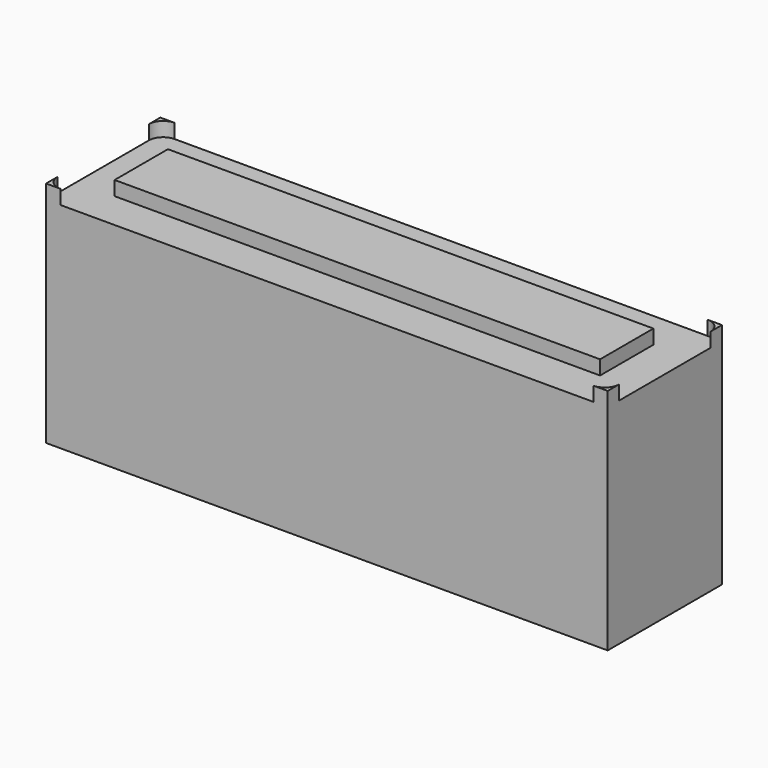
from build123d import *

# Parameters (mm, degrees)
F1_DEPTH = 76.2
F2_W     = 161.925
F2_H     = 22.225
F3_DEPTH = 4.7625


with BuildPart() as f1:
    # F0 (on Top) → F1 (new body)
    with BuildSketch(Plane.XY):
        Polygon((0, 0), (4.7625, 0), (182.5625, 0), (187.325, 0), (187.325, 4.7625), (187.325, 42.8625), (187.325, 47.625), (182.5625, 47.625), (4.7625, 47.625), (0, 47.625), (0, 42.8625), (0, 4.7625), align=None)
    extrude(amount=-F1_DEPTH)

    # F2 (on face) → F3 (cut)
    with BuildSketch(Plane.XY):
        with BuildLine():
            Line((187.325, 4.7625), (187.325, 42.8625))
            ThreePointArc((187.325, 42.8625), (185.930096, 46.230096), (182.5625, 47.625))
            Line((182.5625, 47.625), (4.7625, 47.625))
            ThreePointArc((4.7625, 47.625), (1.394904, 46.230096), (0, 42.8625))
            Line((0, 42.8625), (0, 4.7625))
            ThreePointArc((0, 4.7625), (1.394904, 1.394904), (4.7625, 0))
            Line((4.7625, 0), (182.5625, 0))
            ThreePointArc((182.5625, 0), (185.930096, 1.394904), (187.325, 4.7625))
        make_face()
        with Locations((93.6625, 23.8125)):
            Rectangle(F2_W, F2_H, mode=Mode.SUBTRACT)
    extrude(amount=-F3_DEPTH, mode=Mode.SUBTRACT)


solid = f1.part
